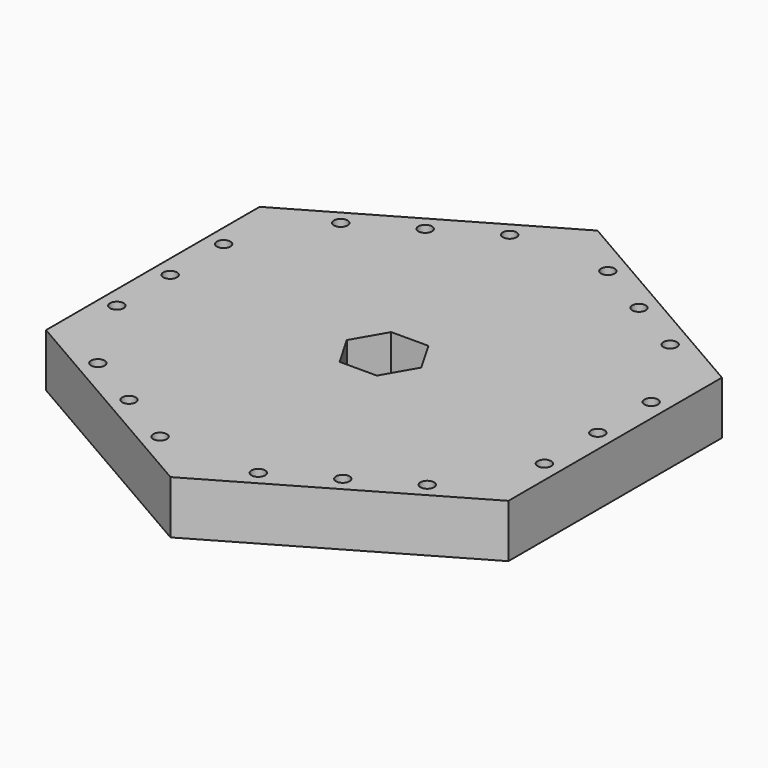
from build123d import *

# Parameters (mm, degrees)
PAD_DEPTH          = 19.9
SKETCH001_R        = 2.55
POCKET_DEPTH       = 550.545928
POLARPATTERN_COUNT = 6


with BuildPart() as part:
    # Sketch → Pad (new body)
    with BuildSketch(Plane.XY):
        Polygon((0, 100), (-86.60254, 50), (-86.60254, -50), (0, -100), (86.60254, -50), (86.60254, 50), align=None)
        Polygon((-13.95, 0), (-6.975, -12.081054), (6.975, -12.081054), (13.95, 0), (6.975, 12.081054), (-6.975, 12.081054), align=None, mode=Mode.SUBTRACT)
    extrude(amount=PAD_DEPTH)

    # Sketch001 (on Face14 of Pad) → Pocket (cut, through all)
    with BuildSketch(Plane.XY.offset(19.9)):
        with Locations((80.1, 25)):
            Circle(SKETCH001_R)
        with Locations((80.1, -25)):
            Circle(SKETCH001_R)
        with Locations((80.1, 0)):
            Circle(SKETCH001_R)
    pocket = extrude(amount=-POCKET_DEPTH, mode=Mode.SUBTRACT)

    # PolarPattern: Pocket ×6 about axis
    polarpattern_axis = Axis((0, 0, 19.9), (0, 0, 1))
    for i in range(1, POLARPATTERN_COUNT):
        add(pocket.rotate(polarpattern_axis, i * 360 / POLARPATTERN_COUNT), mode=Mode.SUBTRACT)


solid = part.part
